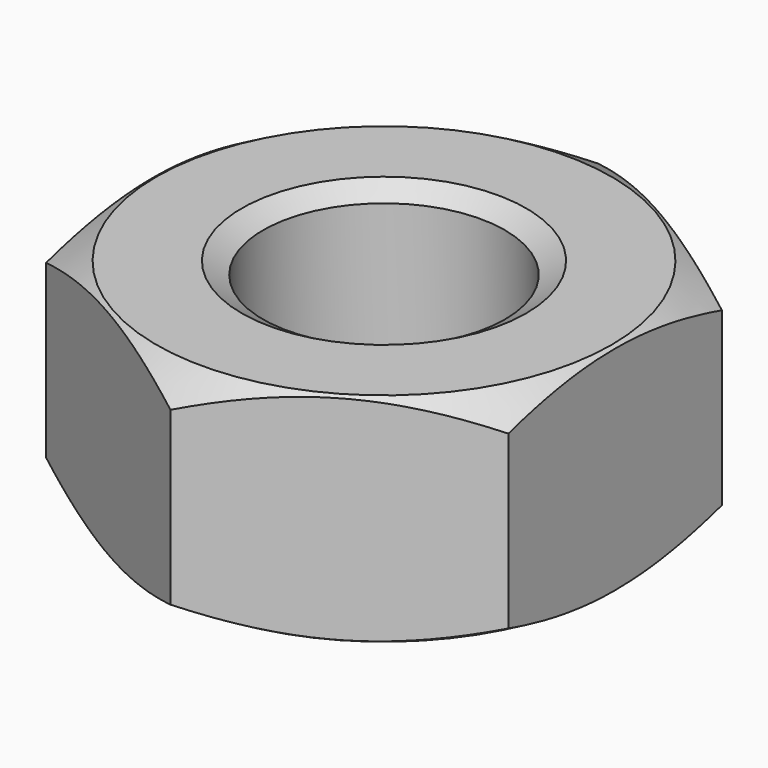
from build123d import *

# Parameters (mm, degrees)
SKETCH001_R  = 8
POCKET_DEPTH = 6.1


with BuildPart() as part:
    # Sketch → Revolution (revolve)
    with BuildSketch(Plane.XZ):
        Polygon((4, 0), (3.4, 0.34641), (3.4, 5.75359), (4, 6.1), (6.4, 6.1), (8, 5.17624), (8, 0.92376), (6.4, 0), align=None)
    revolve(axis=Axis((0, 0, 0), (0, 0, 1)))

    # Sketch001 → Pocket (cut)
    with BuildSketch(Plane(origin=(0, 0, 6.1), x_dir=(-1, 0, 0), z_dir=(0, 0, 1))):
        Circle(SKETCH001_R)
        Polygon((-6.5, 3.752777), (-6.5, -3.752777), (0, -7.505553), (6.5, -3.752777), (6.5, 3.752777), (0, 7.505553), align=None, mode=Mode.SUBTRACT)
    extrude(amount=-POCKET_DEPTH, mode=Mode.SUBTRACT)


solid = part.part
